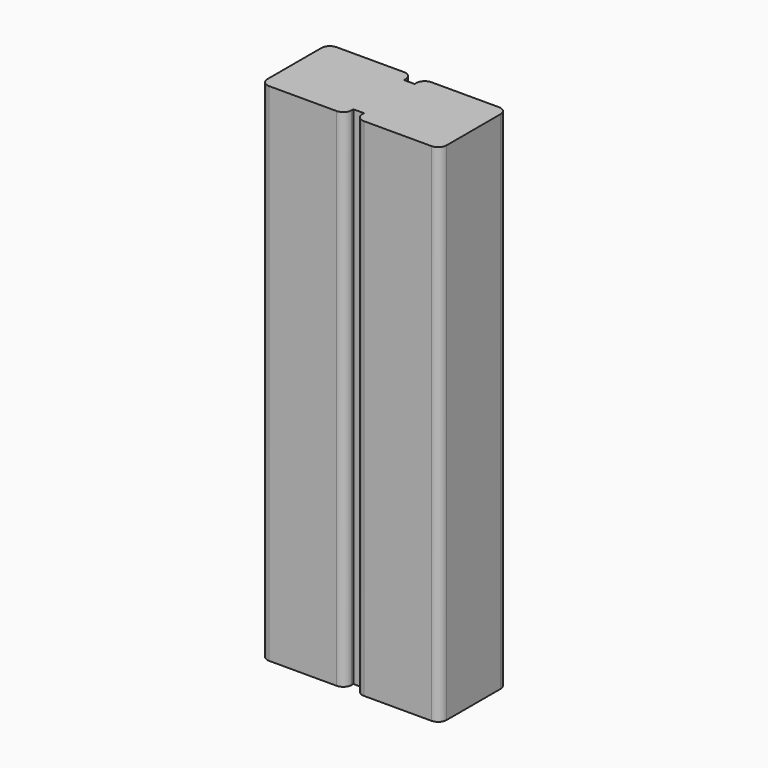
from build123d import *

# Parameters (mm, degrees)
F0_W     = 50.8
F0_H     = 50.8
F1_DEPTH = 304.8
F2_R     = 5.08
F3_W     = 6.35
F3_H     = 38.1
F4_DEPTH = 304.8
F5_W     = 50.8
F5_H     = 50.8
F6_DEPTH = 304.8
F7_R     = 5.08


with BuildPart() as f1:
    # F0 (on Top) → F1 (new body)
    with BuildSketch(Plane.XY):
        with Locations((25.4, -25.4)):
            Rectangle(F0_W, F0_H)
    extrude(amount=F1_DEPTH)

    # F2
    f2_edges = [f1.edges().sort_by_distance(p)[0] for p in [
        (0, -50.8, 152.4),
        (50.8, -50.8, 152.4),
        (50.8, 0, 152.4),
        (0, 0, 152.4),
    ]]
    fillet(f2_edges, radius=F2_R)

    # F3 (on Top) → F4 (join)
    with BuildSketch(Plane.XY):
        with Locations((-3.175, -25.4)):
            Rectangle(F3_W, F3_H)
    extrude(amount=F4_DEPTH)

    # F5 (on Top) → F6 (join)
    with BuildSketch(Plane.XY):
        with Locations((-31.75, -25.4)):
            Rectangle(F5_W, F5_H)
    extrude(amount=F6_DEPTH)

    # F7
    f7_edges = [f1.edges().sort_by_distance(p)[0] for p in [
        (-57.15, -50.8, 152.4),
        (-6.35, -50.8, 152.4),
        (-57.15, 0, 152.4),
        (-6.35, 0, 152.4),
    ]]
    fillet(f7_edges, radius=F7_R)


solid = f1.part
